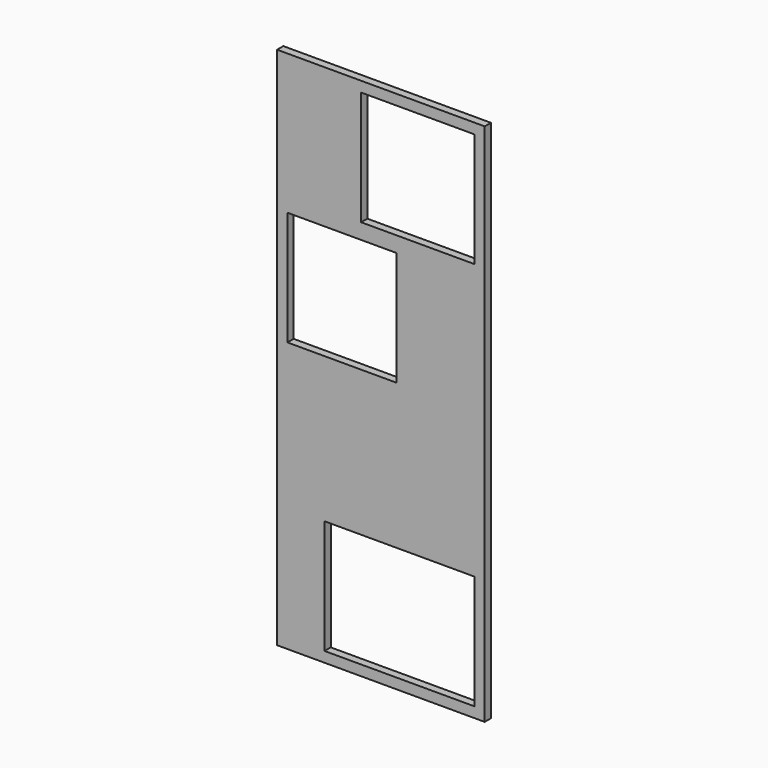
from build123d import *

# Parameters (mm, degrees)
F0_W     = 80
F0_H     = 202
F1_DEPTH = 3
F2_W     = 41.942806
F2_H     = 44
F2_W_2   = 43.622092
F3_DEPTH = 25


with BuildPart() as f1:
    # F0 (on Front) → F1 (new body)
    with BuildSketch(Plane.XZ):
        with Locations((-19.744222, 27.878283)):
            Rectangle(F0_W, F0_H)
    extrude(amount=F1_DEPTH)

    # F2 (on face) → F3 (cut)
    with BuildSketch(Plane.XZ.offset(3)):
        with Locations((-34.772819, 52.878283)):
            Rectangle(F2_W, F2_H)
        with Locations((-5.555268, 102.878283)):
            Rectangle(F2_W_2, F2_H)
        Polygon((16.255778, -25.121717), (-41.454826, -25.121717), (-41.454826, -42.175964), (-41.454826, -69.121717), (16.255778, -69.121717), align=None)
    extrude(amount=-F3_DEPTH, mode=Mode.SUBTRACT)


solid = f1.part
